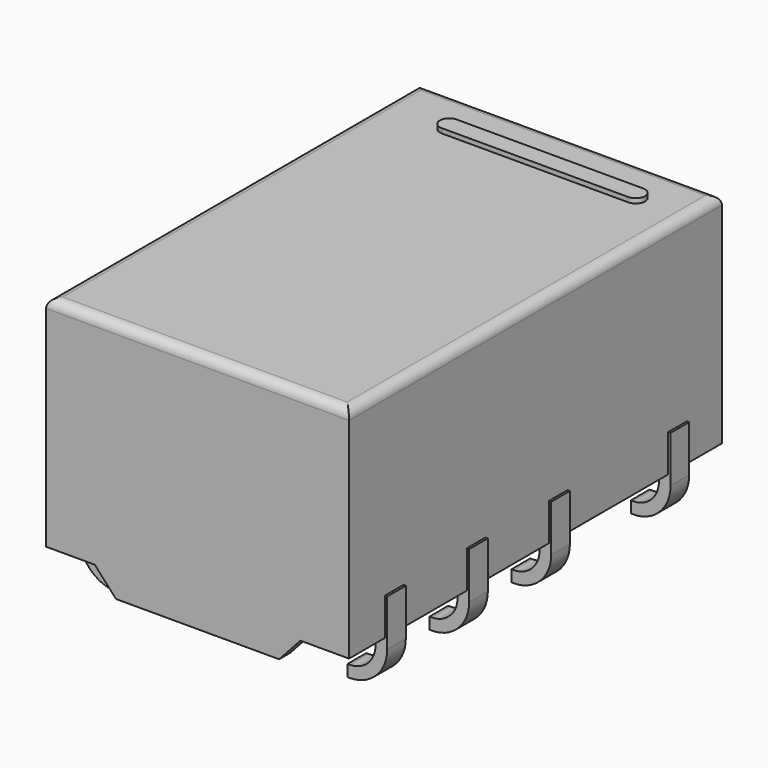
from build123d import *

# Parameters (mm, degrees)
SKETCH_W     = 10
SKETCH_H     = 6.5
PAD_DEPTH    = 4.7
FILLET_R     = 0.2
PAD010_DEPTH = 0.25
PAD012_DEPTH = 0.25
PAD007_DEPTH = 0.3
SKETCH008_W  = 4.5
SKETCH008_H  = 0.15
PAD006_DEPTH = 4
PAD013_DEPTH = 0.25
PAD011_DEPTH = 0.25
PAD014_DEPTH = 0.2
PAD008_DEPTH = 0.3


with BuildPart() as fillet_body:
    # Sketch → Pad (new body)
    with BuildSketch(Plane(origin=(0, 0, 1), x_dir=(0, -1, 0), z_dir=(0, 0, 1))):
        Rectangle(SKETCH_W, SKETCH_H)
    extrude(amount=PAD_DEPTH)

    # Fillet
    fillet_edges = [fillet_body.edges().sort_by_distance(p)[0] for p in [
        (-3.25, 0, 5.7),
        (0, -5, 5.7),
        (3.25, 0, 5.7),
        (0, 5, 5.7),
    ]]
    fillet(fillet_edges, radius=FILLET_R)


with BuildPart() as pad010:
    # Sketch011 → Pad010 (new body, symmetric)
    with BuildSketch(Plane.XZ.offset(1.59)):
        with BuildLine():
            Line((-3.3, 1.8), (-3.05, 1.8))
            Line((-3.05, 1.8), (-3.05, 0.8))
            ThreePointArc((-3.05, 0.8), (-2.888909, 0.411091), (-2.5, 0.25))
            Line((-2.45, 0.25), (-2.5, 0.25))
            Line((-2.45, 0), (-2.45, 0.25))
            Line((-2.45, 0), (-2.5, 0))
            ThreePointArc((-3.3, 0.8), (-3.065685, 0.234315), (-2.5, 0))
            Line((-3.3, 1.8), (-3.3, 0.8))
        make_face()
        with BuildLine():
            ThreePointArc((2.5, 0.25), (2.888909, 0.411091), (3.05, 0.8))
            Line((3.05, 1.8), (3.05, 0.8))
            Line((3.3, 1.8), (3.05, 1.8))
            Line((3.3, 0.8), (3.3, 1.8))
            ThreePointArc((2.500011, 0), (3.065689, 0.234318), (3.3, 0.8))
            Line((2.45, 0), (2.500011, 0))
            Line((2.45, 0.25), (2.45, 0))
            Line((2.5, 0.25), (2.45, 0.25))
        make_face()
    extrude(amount=PAD010_DEPTH, both=True)


with BuildPart() as pad012:
    # Sketch013 → Pad012 (new body, symmetric)
    with BuildSketch(Plane.XZ.offset(3.79)):
        with BuildLine():
            Line((-3.3, 1.8), (-3.05, 1.8))
            Line((-3.05, 1.8), (-3.05, 0.8))
            ThreePointArc((-3.05, 0.8), (-2.888909, 0.411091), (-2.5, 0.25))
            Line((-2.45, 0.25), (-2.5, 0.25))
            Line((-2.45, 0), (-2.45, 0.25))
            Line((-2.45, 0), (-2.5, 0))
            ThreePointArc((-3.3, 0.8), (-3.065685, 0.234315), (-2.5, 0))
            Line((-3.3, 1.8), (-3.3, 0.8))
        make_face()
        with BuildLine():
            ThreePointArc((2.5, 0.25), (2.888909, 0.411091), (3.05, 0.8))
            Line((3.05, 1.8), (3.05, 0.8))
            Line((3.3, 1.8), (3.05, 1.8))
            Line((3.3, 0.8), (3.3, 1.8))
            ThreePointArc((2.500011, 0), (3.065689, 0.234318), (3.3, 0.8))
            Line((2.45, 0), (2.500011, 0))
            Line((2.45, 0.25), (2.45, 0))
            Line((2.5, 0.25), (2.45, 0.25))
        make_face()
    extrude(amount=PAD012_DEPTH, both=True)


with BuildPart() as pad007:
    # Sketch009 → Pad007 (new body)
    with BuildSketch(Plane.XZ.offset(5)):
        Polygon((-1.75, 0.5), (1.75, 0.5), (2.25, 1.05), (-2.25, 1.05), align=None)
    extrude(amount=-PAD007_DEPTH)


with BuildPart() as pad006:
    # Sketch008 → Pad006 (new body, symmetric)
    with BuildSketch(Plane.XZ):
        with Locations((0, 0.775)):
            Rectangle(SKETCH008_W, SKETCH008_H)
    extrude(amount=PAD006_DEPTH, both=True)


with BuildPart() as pad013:
    # Sketch014 → Pad013 (new body, symmetric)
    with BuildSketch(Plane.XZ.offset(-0.61)):
        with BuildLine():
            Line((-3.3, 1.8), (-3.05, 1.8))
            Line((-3.05, 1.8), (-3.05, 0.8))
            ThreePointArc((-3.05, 0.8), (-2.888909, 0.411091), (-2.5, 0.25))
            Line((-2.45, 0.25), (-2.5, 0.25))
            Line((-2.45, 0), (-2.45, 0.25))
            Line((-2.45, 0), (-2.5, 0))
            ThreePointArc((-3.3, 0.8), (-3.065685, 0.234315), (-2.5, 0))
            Line((-3.3, 1.8), (-3.3, 0.8))
        make_face()
        with BuildLine():
            ThreePointArc((2.5, 0.25), (2.888909, 0.411091), (3.05, 0.8))
            Line((3.05, 1.8), (3.05, 0.8))
            Line((3.3, 1.8), (3.05, 1.8))
            Line((3.3, 0.8), (3.3, 1.8))
            ThreePointArc((2.500011, 0), (3.065689, 0.234318), (3.3, 0.8))
            Line((2.45, 0), (2.500011, 0))
            Line((2.45, 0.25), (2.45, 0))
            Line((2.5, 0.25), (2.45, 0.25))
        make_face()
    extrude(amount=PAD013_DEPTH, both=True)


with BuildPart() as pad011:
    # Sketch012 → Pad011 (new body, symmetric)
    with BuildSketch(Plane.XZ.offset(-3.81)):
        with BuildLine():
            Line((-3.3, 1.8), (-3.05, 1.8))
            Line((-3.05, 1.8), (-3.05, 0.8))
            ThreePointArc((-3.05, 0.8), (-2.888909, 0.411091), (-2.5, 0.25))
            Line((-2.45, 0.25), (-2.5, 0.25))
            Line((-2.45, 0), (-2.45, 0.25))
            Line((-2.45, 0), (-2.5, 0))
            ThreePointArc((-3.3, 0.8), (-3.065685, 0.234315), (-2.5, 0))
            Line((-3.3, 1.8), (-3.3, 0.8))
        make_face()
        with BuildLine():
            ThreePointArc((2.5, 0.25), (2.888909, 0.411091), (3.05, 0.8))
            Line((3.05, 1.8), (3.05, 0.8))
            Line((3.3, 1.8), (3.05, 1.8))
            Line((3.3, 0.8), (3.3, 1.8))
            ThreePointArc((2.500011, 0), (3.065689, 0.234318), (3.3, 0.8))
            Line((2.45, 0), (2.500011, 0))
            Line((2.45, 0.25), (2.45, 0))
            Line((2.5, 0.25), (2.45, 0.25))
        make_face()
    extrude(amount=PAD011_DEPTH, both=True)


with BuildPart() as pad014:
    # Sketch001 → Pad014 (new body)
    with BuildSketch(Plane(origin=(0, 0, 5.6), x_dir=(0, -1, 0), z_dir=(0, 0, 1))):
        with BuildLine():
            Line((-3.8, -1.8), (-3.8, 2.2))
            ThreePointArc((-3.8, 2.2), (-4, 2.4), (-4.2, 2.2))
            Line((-4.2, 2.2), (-4.2, -1.8))
            ThreePointArc((-4.2, -1.8), (-4, -2), (-3.8, -1.8))
        make_face()
    extrude(amount=PAD014_DEPTH)


with BuildPart() as obj1:
    # Sketch010 → Pad008 (new body)
    with BuildSketch(Plane.XZ.offset(-5)):
        Polygon((-1.75, 0.5), (1.75, 0.5), (2.25, 1.05), (-2.25, 1.05), align=None)
    extrude(amount=PAD008_DEPTH)

    add(fillet_body.part)
    add(pad010.part)
    add(pad012.part)
    add(pad007.part)
    add(pad006.part)
    add(pad013.part)
    add(pad011.part)
    add(pad014.part)


solid = obj1.part
